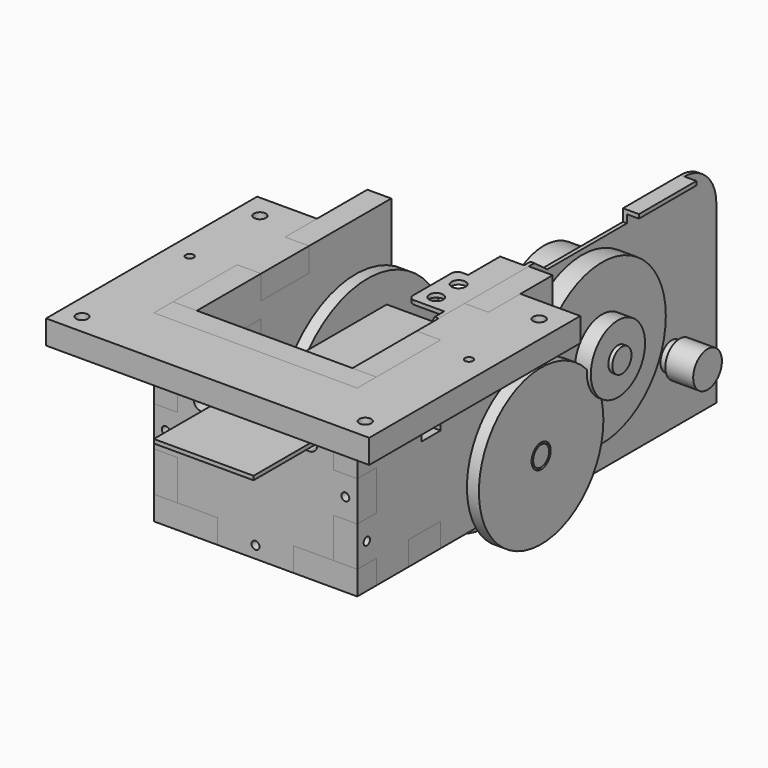
from build123d import *

# Parameters (mm, degrees)
F3_DEPTH  = 1
F4_R      = 1
F5_DEPTH  = 1
F6_R      = 1.75
F6_W      = 3
F6_H      = 18
F7_DEPTH  = 1
F14_R     = 1
F14_R_2   = 4
F14_W     = 6
F14_H     = 10
F15_DEPTH = 6
F17_R     = 1.5
F18_DEPTH = 6
F20_R     = 25
F20_R_2   = 1.5
F20_R_3   = 2.5
F21_DEPTH = 3
F22_W     = 72.9866399924
F22_H     = 1
F23_DEPTH = 25
F24_R     = 1
F25_DEPTH = 6
F26_R     = 1
F27_DEPTH = 6
F28_R     = 2.5
F28_R_2   = 1
F28_W     = 6
F28_H     = 10
F29_DEPTH = 6
F30_R     = 1.5
F30_R_2   = 1
F31_DEPTH = 6
F33_DEPTH = 6


with BuildPart() as f1:
    # F0 (on Top) → F1 (revolve)
    with BuildSketch(Plane.XY):
        Polygon((0, 14), (-32, 14), (-32, 5), (-35, 5), (-35, 2), (-36.5, 2), (-36.5, 0), (9, 0), (9, 4.5), (2, 4.5), (2, 3.5), (0, 3.5), align=None)
    revolve(axis=Axis((-13.75, 0, 0), (-1, 0, 0)))

    # F2 (on face) → F3 (join)
    with BuildSketch(Plane.YZ):
        with BuildLine():
            ThreePointArc((14, 28), (11.0710678119, 35.0710678119), (4, 38))
            Line((4, 38), (-14, 38))
            Line((-14, 38), (-14, 35))
            Line((-14, 35), (-39, 35))
            Line((-39, 35), (-43, 38))
            Line((-43, 38), (-73, 38))
            Line((-73, 38), (-77, 35))
            Line((-77, 35), (-100, 35))
            Line((-100, 35), (-100, -1))
            Line((-100, -1), (-86, -1))
            Line((-86, -1), (-82, 2))
            Line((-82, 2), (-56, 2))
            ThreePointArc((-56, 2), (-47.4644660941, 5.5355339059), (-51, -3))
            Line((-51, -3), (-51, -16))
            Line((-51, -16), (14, -16))
            Line((14, -16), (14, 28))
        make_face()
    extrude(amount=-F3_DEPTH)

    # F4 (on face) → F5 (join)
    with BuildSketch(Plane(origin=(0, 0, -16), x_dir=(1, 0, 0), z_dir=(0, 0, -1))):
        Polygon((-10, -14), (-1, -14), (-1, 29), (-3, 29), (-10, 18), align=None)
        with Locations((-6.5, 16)):
            Circle(F4_R, mode=Mode.SUBTRACT)
    extrude(amount=-F5_DEPTH)

    # F6 (on face) → F7 (join)
    with BuildSketch(Plane.XY.offset(38)):
        with BuildLine():
            Line((-8.5, -70), (-1, -70))
            Line((-1, -70), (-1, -45))
            Line((-1, -45), (-7, -45))
            Line((-7, -45), (-7, -55))
            Line((-7, -55), (-8.5, -55))
            ThreePointArc((-8.5, -55), (-9.5606601718, -55.4393398282), (-10, -56.5))
            Line((-10, -56.5), (-10, -68.5))
            ThreePointArc((-10, -68.5), (-9.5606601718, -69.5606601718), (-8.5, -70))
        make_face()
        with Locations((-6, -66.25)):
            Circle(F6_R, mode=Mode.SUBTRACT)
        with Locations((-6, -59.25)):
            Circle(F6_R, mode=Mode.SUBTRACT)
        with Locations((1.5, -5)):
            Rectangle(F6_W, F6_H)
    extrude(amount=-F7_DEPTH)

    # F9 (on line) → F10 (revolve)
    with BuildSketch(Plane.XY.offset(15)):
        Polygon((0, -24.9541316015), (0, -29.9541316015), (11.5, -29.9541316015), (11.5, -26.9541316015), (10.5, -26.9541316015), (10.5, -21.4541316015), (6.5, -21.4541316015), (6.5, -9.9541316015), (1.5, -9.9541316015), (1.5, -24.9541316015), align=None)
    revolve(axis=Axis((5.75, -29.9541316015, 15), (1, 0, 0)))


with BuildPart() as f13:
    # F12 (on line) → F13 (revolve)
    with BuildSketch(Plane.XY.offset(2.5204527519)):
        Polygon((-50.5, -50.2633600076), (-50.5, -52.7633600076), (9.5, -52.7633600076), (9.5, -50.2633600076), (9, -50.2633600076), (9, -49.7633600076), (9.5, -49.7633600076), (9.5, -33.2633600076), (6.5, -33.2633600076), (6.5, -48.7633600076), (1.5, -48.7633600076), (1.5, -50.2633600076), align=None)
    revolve(axis=Axis((-20.5, -52.7633600076, 2.5204527519), (1, 0, 0)))


with BuildPart() as f15:
    # F14 (on face) → F15 (new body)
    with BuildSketch(Plane.YZ):
        with BuildLine():
            ThreePointArc((-44.7633600076, 0.1108511319), (-50.9541316015, 15), (-44.7633600076, 29.8891488681))
            Line((-44.7633600076, 29.8891488681), (-44.7633600076, 38))
            Line((-44.7633600076, 38), (-64.8816800038, 38))
            Line((-64.8816800038, 38), (-64.8816800038, 32))
            Line((-64.8816800038, 32), (-79.8816800038, 32))
            Line((-79.8816800038, 32), (-79.8816800038, 38))
            Line((-79.8816800038, 38), (-100, 38))
            Line((-100, 38), (-100, 28))
            Line((-100, 28), (-106, 28))
            Line((-106, 28), (-106, 18))
            Line((-106, 18), (-100, 18))
            Line((-100, 18), (-100, 8))
            Line((-100, 8), (-106, 8))
            Line((-106, 8), (-106, -2))
            Line((-106, -2), (-100, -2))
            Line((-100, -2), (-100, -8))
            Line((-100, -8), (-90, -8))
            Line((-90, -8), (-90, -2))
            Line((-90, -2), (-80, -2))
            Line((-80, -2), (-80, -8))
            Line((-80, -8), (-44.7633600076, -8))
            Line((-44.7633600076, -8), (-44.7633600076, 0.1108511319))
        make_face()
        with Locations((-103, 3)):
            Circle(F14_R, mode=Mode.SUBTRACT)
        with Locations((-52.7633600076, 2.5204527519)):
            Circle(F14_R_2, mode=Mode.SUBTRACT)
        with Locations((-82.8816800038, 23)):
            Rectangle(F14_W, F14_H, mode=Mode.SUBTRACT)
    extrude(amount=F15_DEPTH)


with BuildPart() as f18:
    # F17 (on offset) → F18 (new body)
    with BuildSketch(Plane(origin=(-4, 0, 0), x_dir=(0, -1, 0), z_dir=(-1, 0, 0))):
        with BuildLine():
            Line((52.5133600076, 15.0079213447), (52.5133600076, 22.5188901909))
            ThreePointArc((52.5133600076, 22.5188901909), (52.7633600076, -17.4795472481), (53.0133600076, 22.5188901909))
            Line((53.0133600076, 22.5188901909), (53.0133600076, 15.0079213447))
            ThreePointArc((53.0133600076, 15.0079213447), (52.7633600076, 10.0204527519), (52.5133600076, 15.0079213447))
        make_face()
        with Locations((52.7633600076, -12.4795472481)):
            Circle(F17_R, mode=Mode.SUBTRACT)
        with Locations((39.7729789509, 10.0204527519)):
            Circle(F17_R, mode=Mode.SUBTRACT)
        with BuildLine():
            ThreePointArc((50.4720721601, 3.5204527519), (52.7633600076, 5.0204527519), (55.0546478551, 3.5204527519))
            Line((55.0546478551, 3.5204527519), (57.7633600076, 3.5204527519))
            Line((57.7633600076, 3.5204527519), (57.7633600076, 1.5204527519))
            Line((57.7633600076, 1.5204527519), (55.0546478551, 1.5204527519))
            ThreePointArc((55.0546478551, 1.5204527519), (52.7633600076, 0.0204527519), (50.4720721601, 1.5204527519))
            Line((50.4720721601, 1.5204527519), (47.7633600076, 1.5204527519))
            Line((47.7633600076, 1.5204527519), (47.7633600076, 3.5204527519))
            Line((47.7633600076, 3.5204527519), (50.4720721601, 3.5204527519))
        make_face(mode=Mode.SUBTRACT)
        with Locations((65.7537410644, 10.0204527519)):
            Circle(F17_R, mode=Mode.SUBTRACT)
    extrude(amount=F18_DEPTH)


with BuildPart() as f21:
    # F20 (on offset) → F21 (new body)
    with BuildSketch(Plane(origin=(-34, 0, 0), x_dir=(0, -1, 0), z_dir=(-1, 0, 0))):
        with Locations((52.7633600076, 2.5204527519)):
            Circle(F20_R)
        with Locations((52.7633600076, -12.4795472481)):
            Circle(F20_R_2, mode=Mode.SUBTRACT)
        with Locations((39.7729789509, 10.0204527519)):
            Circle(F20_R_2, mode=Mode.SUBTRACT)
        with Locations((52.7633600076, 2.5204527519)):
            Circle(F20_R_3, mode=Mode.SUBTRACT)
        with Locations((65.7537410644, 10.0204527519)):
            Circle(F20_R_2, mode=Mode.SUBTRACT)
    extrude(amount=F21_DEPTH)


with BuildPart() as f23:
    # F22 (on face) → F23 (new body)
    with BuildSketch(Plane.YZ.offset(-4)):
        with Locations((-89.5066800038, 23.0188901909)):
            Rectangle(F22_W, F22_H)
    extrude(amount=-F23_DEPTH)


with BuildPart() as f25:
    # F24 (on face) → F25 (new body)
    with BuildSketch(Plane.XZ.offset(100)):
        Polygon((6, 28), (6, 38), (-19.5, 38), (-45, 38), (-45, 28), (-39, 28), (-39, 18), (-45, 18), (-45, 8), (-39, 8), (-39, -2), (-29, -2), (-29, -8), (-19.5, -8), (-10, -8), (-10, -2), (0, -2), (0, 8), (6, 8), (6, 18), (0, 18), (0, 28), align=None)
        with Locations((-42, 13)):
            Circle(F24_R, mode=Mode.SUBTRACT)
        with Locations((-19.5, -5)):
            Circle(F24_R, mode=Mode.SUBTRACT)
        with Locations((3, 13)):
            Circle(F24_R, mode=Mode.SUBTRACT)
        with Locations((-42, 33)):
            Circle(F24_R, mode=Mode.SUBTRACT)
        with BuildLine():
            ThreePointArc((-4, 22.1311934509), (-4.5857864376, 20.7169798885), (-6, 20.1311934509))
            Line((-6, 20.1311934509), (-33, 20.1311934509))
            ThreePointArc((-33, 20.1311934509), (-34.4142135624, 20.7169798885), (-35, 22.1311934509))
            Line((-35, 22.1311934509), (-35, 23.9065869309))
            ThreePointArc((-35, 23.9065869309), (-34.4142135624, 25.3208004933), (-33, 25.9065869309))
            Line((-33, 25.9065869309), (-6, 25.9065869309))
            ThreePointArc((-6, 25.9065869309), (-4.5857864376, 25.3208004933), (-4, 23.9065869309))
            Line((-4, 23.9065869309), (-4, 22.1311934509))
        make_face(mode=Mode.SUBTRACT)
        with Locations((3, 33)):
            Circle(F24_R, mode=Mode.SUBTRACT)
    extrude(amount=F25_DEPTH)


with BuildPart() as f27:
    # F26 (on face) → F27 (new body)
    with BuildSketch(Plane(origin=(0, 0, -2), x_dir=(1, 0, 0), z_dir=(0, 0, -1))):
        Polygon((6, 106), (-10, 106), (-10, 100), (-19.5, 100), (-29, 100), (-29, 106), (-45, 106), (-45, 100), (-39, 100), (-39, 90), (-45, 90), (-45, 80), (-39, 80), (-39, 78), (-19.5, 78), (0, 78), (0, 80), (6, 80), (6, 90), (0, 90), (0, 100), (6, 100), align=None)
        with Locations((-42, 103)):
            Circle(F26_R, mode=Mode.SUBTRACT)
        with Locations((3, 103)):
            Circle(F26_R, mode=Mode.SUBTRACT)
    extrude(amount=F27_DEPTH)


with BuildPart() as f29:
    # F28 (on face) → F29 (new body)
    with BuildSketch(Plane(origin=(-39, 0, 0), x_dir=(0, -1, 0), z_dir=(-1, 0, 0))):
        Polygon((64.8816800038, 38), (39.1025952995, 38), (39.1025952995, -8), (80, -8), (80, -2), (90, -2), (90, -8), (100, -8), (100, -2), (106, -2), (106, 8), (100, 8), (100, 18), (106, 18), (106, 28), (100, 28), (100, 38), (79.8816800038, 38), (79.8816800038, 32), (64.8816800038, 32), align=None)
        with Locations((52.7633600076, 2.5204527519)):
            Circle(F28_R, mode=Mode.SUBTRACT)
        with Locations((103, 3)):
            Circle(F28_R_2, mode=Mode.SUBTRACT)
        with Locations((82.8816800038, 23)):
            Rectangle(F28_W, F28_H, mode=Mode.SUBTRACT)
    extrude(amount=F29_DEPTH)


with BuildPart() as f31:
    # F30 (on face) → F31 (new body)
    with BuildSketch(Plane.XY.offset(32)):
        Polygon((-60, -121), (21, -121), (21, -54.8816800038), (6, -54.8816800038), (6, -64.8816800038), (0, -64.8816800038), (0, -79.8816800038), (6, -79.8816800038), (6, -106), (-45, -106), (-45, -79.8816800038), (-39, -79.8816800038), (-39, -64.8816800038), (-45, -64.8816800038), (-45, -54.8816800038), (-60, -54.8816800038), align=None)
        with Locations((-55, -116)):
            Circle(F30_R, mode=Mode.SUBTRACT)
        with Locations((16, -116)):
            Circle(F30_R, mode=Mode.SUBTRACT)
        with Locations((-54.5, -82.8816800038)):
            Circle(F30_R_2, mode=Mode.SUBTRACT)
        with Locations((-54.5, -60.8816800038)):
            Circle(F30_R, mode=Mode.SUBTRACT)
        with Locations((15.5, -82.8816800038)):
            Circle(F30_R_2, mode=Mode.SUBTRACT)
        with Locations((15.5, -60.8816800038)):
            Circle(F30_R, mode=Mode.SUBTRACT)
    extrude(amount=F31_DEPTH)


with BuildPart() as f33:
    # F32 (on face) → F33 (new body)
    with BuildSketch(Plane(origin=(0, -85.8816800038, 0), x_dir=(-1, 0, 0), z_dir=(0, 1, 0))):
        Polygon((45, 13), (49, 13), (50.5, 26), (54.4, 26), (54.5, 26.2), (54.6, 26), (60, 26), (60, 32), (45, 32), (45, 28), (39, 28), (39, 18), (45, 18), align=None)
    extrude(amount=F33_DEPTH)


solid = Compound([f1.part, f13.part, f15.part, f18.part, f21.part, f23.part, f25.part, f27.part, f29.part, f31.part, f33.part])
